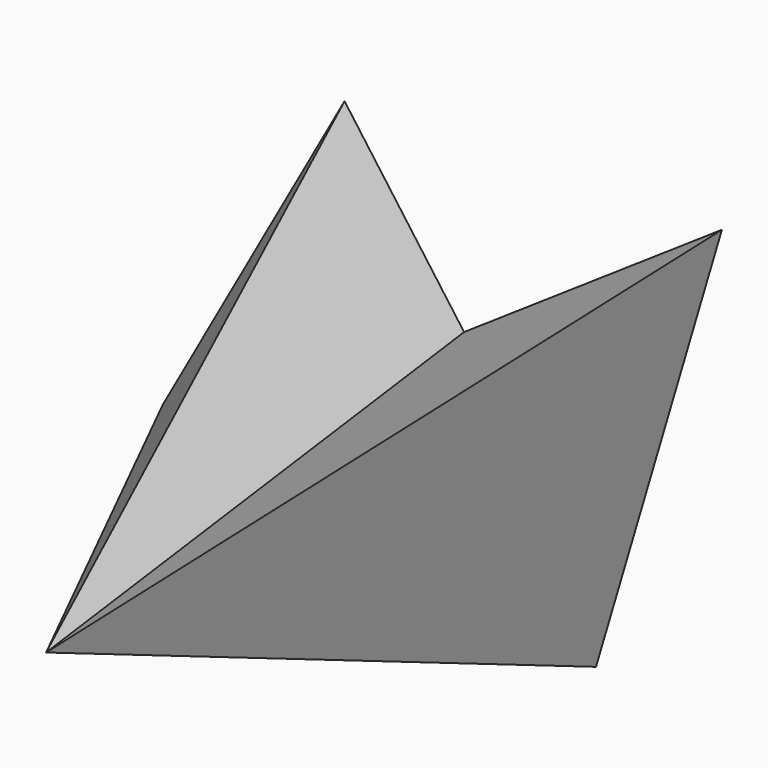
from build123d import *


with BuildPart() as f3:
    # F0 (on Front) → F3 section 0
    with BuildSketch(Plane.XZ, mode=Mode.PRIVATE) as f3_s0:
        Polygon((0, 13.340164), (-22.878868, 44.798606), (-57.663936, -17.643442), (25.245899, -34.856558), (49.34426, 46.618853), align=None)
    loft([f3_s0.sketch, Vertex(0, -100, 0)])


solid = f3.part
